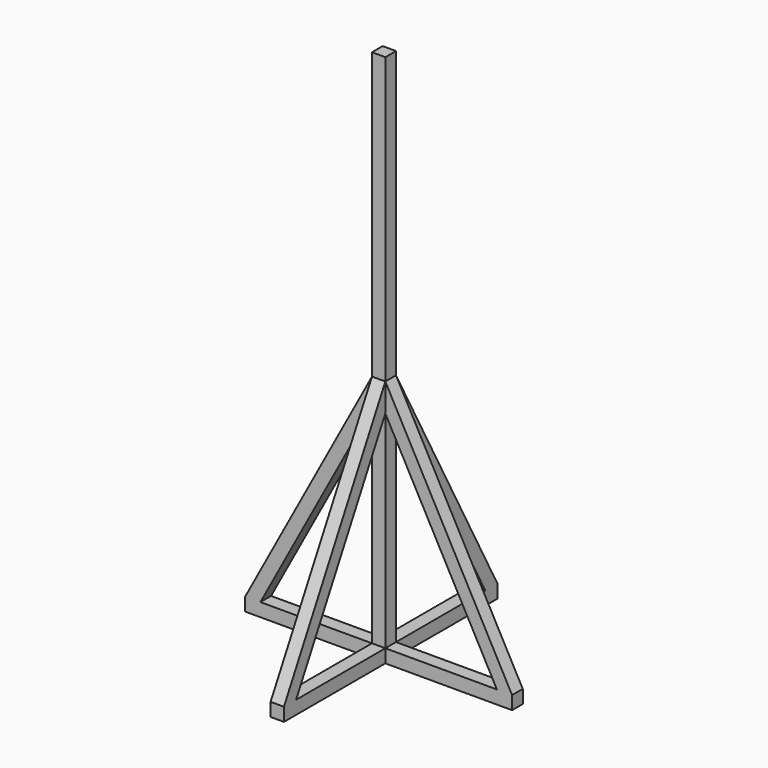
from build123d import *

# Parameters (mm, degrees)
F1_DEPTH  = 25
F3_DEPTH  = 50
F1_FACE_W = 50
F1_FACE_H = 50
F4_DEPTH  = 1000


with BuildPart() as f1:
    # F0 (on Front) → F1 (new body, symmetric)
    with BuildSketch(Plane.XZ):
        Polygon((-475, 0), (0, 0), (50, 0), (525, 0), (525, 50), (50, 929.985795), (50, 1000), (0, 1000), (0, 929.985795), (-475, 50), align=None)
        Polygon((0, 824.722637), (0, 50), (-418.180901, 50), align=None, mode=Mode.SUBTRACT)
        Polygon((468.180901, 50), (50, 50), (50, 824.722637), align=None, mode=Mode.SUBTRACT)
    extrude(amount=F1_DEPTH, both=True)

    # F2 (on Right) → F3 (join)
    with BuildSketch(Plane.YZ):
        Polygon((-500, 50), (-500, 0), (500, 0), (500, 50), (25, 929.985795), (-25, 929.985795), align=None)
        Polygon((-25, 50), (-443.180901, 50), (-25, 824.722637), align=None, mode=Mode.SUBTRACT)
        Polygon((25, 50), (25, 824.722637), (443.180901, 50), align=None, mode=Mode.SUBTRACT)
    extrude(amount=F3_DEPTH)

    # F1_face (on face) → F4 (join)
    with BuildSketch(Plane(origin=(25, 0, 1000), x_dir=(1, 0, 0), z_dir=(0, 0, 1))):
        Rectangle(F1_FACE_W, F1_FACE_H)
    extrude(amount=F4_DEPTH)


solid = f1.part
